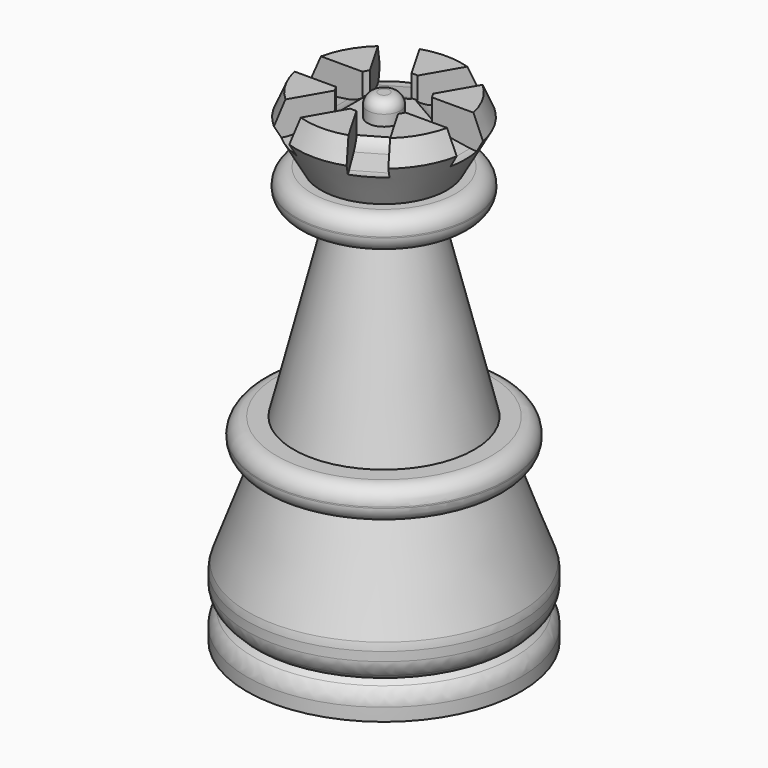
from build123d import *

# Parameters (mm, degrees)
FILLET015_R           = 1.45
FILLET016_R           = 2
POCKET003_DEPTH       = 1.5
POLARPATTERN001_COUNT = 6
FILLET018_R           = 1


with BuildPart() as part:
    # Sketch012 → Revolution005 (revolve)
    with BuildSketch(Plane.XZ):
        Polygon((0, 4.595736), (4.729655, 4.595736), (4.729655, 0), (12.5, 0), (12.5, 2), (11.5, 3), (12.5, 4), (12.5, 6), (9.224268, 15), (11.224268, 15), (11.224268, 18), (8.224268, 18), (4, 35), (8, 35), (8, 38), (5.736478, 38), (7.963291, 42), (7.101928, 44), (3.5, 44), (3.5, 42), (1.5, 42), (1.5, 44), (0, 44), align=None)
    revolve(axis=Axis((0, 0, 0), (0, 0, 1)))

    # Fillet015
    fillet015_edges = [part.edges().sort_by_distance(p)[0] for p in [
        (-11.224268, 0, 18),
        (-11.224268, 0, 15),
        (-8, 0, 38),
        (-8, 0, 35),
    ]]
    fillet(fillet015_edges, radius=FILLET015_R)

    # Fillet016
    fillet016_edges = [part.edges().sort_by_distance(p)[0] for p in [
        (-12.5, 0, 6),
        (-12.5, 0, 4),
        (-12.5, 0, 2),
    ]]
    fillet(fillet016_edges, radius=FILLET016_R)

    # Sketch013 → Pocket003 (cut, symmetric)
    with BuildSketch(Plane.XZ):
        with BuildLine():
            ThreePointArc((-4.458694, 41.371046), (-1.949277, 44.791985), (-5.370216, 47.301402))
            Line((-5.370216, 47.301402), (-7.557689, 46.965178))
            ThreePointArc((-7.557689, 46.965178), (-10.067106, 43.544239), (-6.646167, 41.034822))
            Line((-4.458694, 41.371046), (-6.646167, 41.034822))
        make_face()
    pocket003 = extrude(amount=POCKET003_DEPTH, both=True, mode=Mode.SUBTRACT)

    # PolarPattern001: Pocket003 ×6 about axis
    polarpattern001_axis = Axis((0, 0, 0), (0, 0, 1))
    for i in range(1, POLARPATTERN001_COUNT):
        add(pocket003.rotate(polarpattern001_axis, i * 360 / POLARPATTERN001_COUNT), mode=Mode.SUBTRACT)

    # Fillet018
    fillet018_edges = [part.edges().sort_by_distance(p)[0] for p in [
        (-1.5, 0, 44),
    ]]
    fillet(fillet018_edges, radius=FILLET018_R)


solid = part.part
